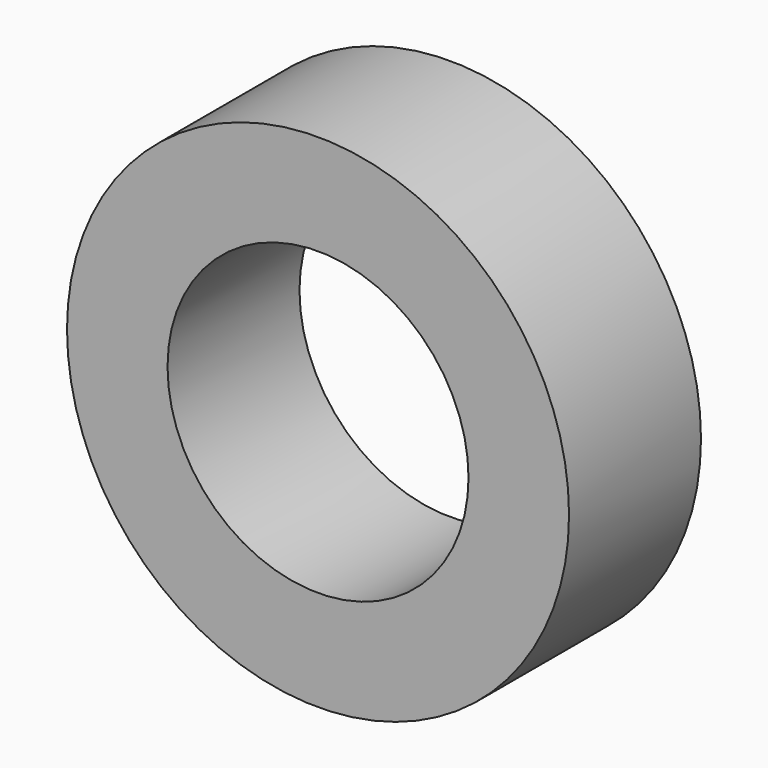
from build123d import *

# Parameters (mm, degrees)
F0_R     = 10.5918
F0_R_2   = 6.35
F1_DEPTH = 6.9596


with BuildPart() as f1:
    # F0 (on Front) → F1 (new body)
    with BuildSketch(Plane.XZ):
        Circle(F0_R)
        Circle(F0_R_2, mode=Mode.SUBTRACT)
    extrude(amount=F1_DEPTH)


with BuildPart() as f1_1:
    # F2: moved
    add(f1.part.moved(Location((0, -3.4798, 0))))


solid = f1_1.part
